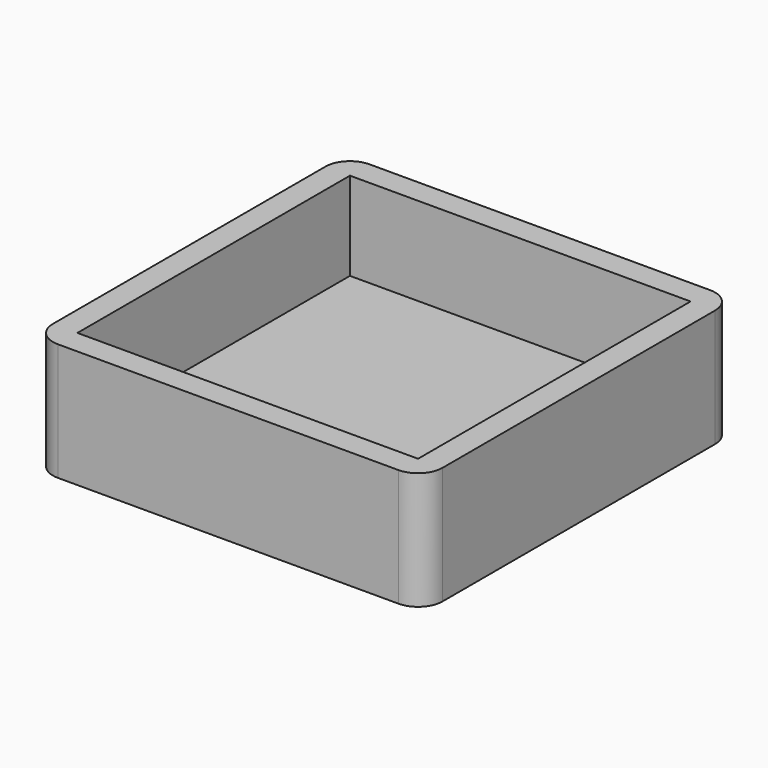
from build123d import *

# Parameters (mm, degrees)
F0_W      = 31.8
F0_H      = 31.8
F1_DEPTH  = 9.6
F2_W      = 29.4
F2_H      = 29.4
F3_DEPTH  = 2
F4_R      = 2
F6_W      = 27.8
F6_H      = 27.8
F7_DEPTH  = 7.2
F8_R      = 3.25685
F10_DEPTH = 2.4
F9_R      = 2.4
F11_DEPTH = 2


with BuildPart() as f1:
    # F0 (on Top) → F1 (new body)
    with BuildSketch(Plane.XY):
        Rectangle(F0_W, F0_H)
    extrude(amount=F1_DEPTH)

    # F2 (on Top) → F3 (cut)
    with BuildSketch(Plane.XY):
        Rectangle(F2_W, F2_H)
    extrude(amount=F3_DEPTH, mode=Mode.SUBTRACT)

    # F4
    f4_edges = [f1.edges().sort_by_distance(p)[0] for p in [
        (-15.9, -15.9, 4.8),
        (-15.9, 15.9, 4.8),
        (15.9, 15.9, 4.8),
        (15.9, -15.9, 4.8),
    ]]
    fillet(f4_edges, radius=F4_R)

    # F6 (on offset) → F7 (cut)
    with BuildSketch(Plane.XY.offset(9.6)):
        Rectangle(F6_W, F6_H)
    extrude(amount=-F7_DEPTH, mode=Mode.SUBTRACT)

    # F8 (on Top) → F10 (join)
    with BuildSketch(Plane.XY):
        with Locations((-8, -8)):
            Circle(F8_R)
        with Locations((-8, 0)):
            Circle(F8_R)
        with Locations((-8, 8)):
            Circle(F8_R)
        with Locations((-0.000151, -7.950921)):
            Circle(F8_R)
        with Locations((-0.000151, 0.049079)):
            Circle(F8_R)
        with Locations((-0.000151, 8.049079)):
            Circle(F8_R)
        with Locations((7.999699, -7.901842)):
            Circle(F8_R)
        with Locations((7.999699, 0.098158)):
            Circle(F8_R)
        with Locations((7.999699, 8.098158)):
            Circle(F8_R)
    extrude(amount=F10_DEPTH)

    # F9 (on Top) → F11 (cut)
    with BuildSketch(Plane.XY):
        with Locations((-8, -8)):
            Circle(F9_R)
        with Locations((-8, 0)):
            Circle(F9_R)
        with Locations((-8, 8)):
            Circle(F9_R)
        with Locations((0, -8)):
            Circle(F9_R)
        Circle(F9_R)
        with Locations((0, 8)):
            Circle(F9_R)
        with Locations((8, -8)):
            Circle(F9_R)
        with Locations((8, 0)):
            Circle(F9_R)
        with Locations((8, 8)):
            Circle(F9_R)
    extrude(amount=F11_DEPTH, mode=Mode.SUBTRACT)


solid = f1.part
